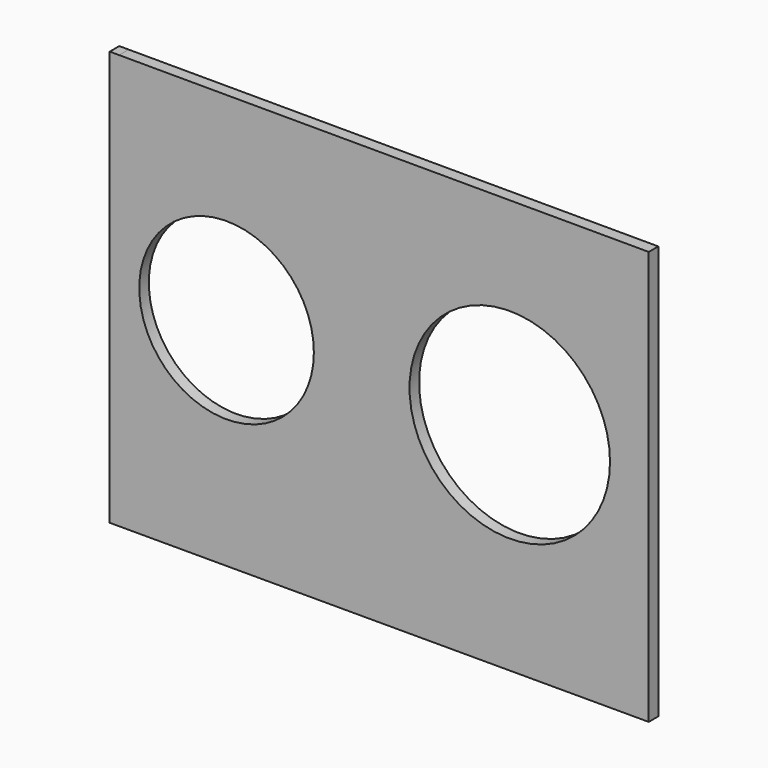
from build123d import *

# Parameters (mm, degrees)
F0_R     = 21.913418
F0_R_2   = 25.159395
F1_DEPTH = 3


with BuildPart() as f1:
    # F0 (on Front) → F1 (new body)
    with BuildSketch(Plane.XZ):
        Polygon((-68.047404, 49.813341), (-70.425756, 49.813341), (-70.425756, -54.305792), (64.876266, -54.305792), (64.876266, 49.549077), align=None)
        with Locations((-41.092701, 0)):
            Circle(F0_R, mode=Mode.SUBTRACT)
        with Locations((29.993711, 0)):
            Circle(F0_R_2, mode=Mode.SUBTRACT)
    extrude(amount=-F1_DEPTH)


solid = f1.part
